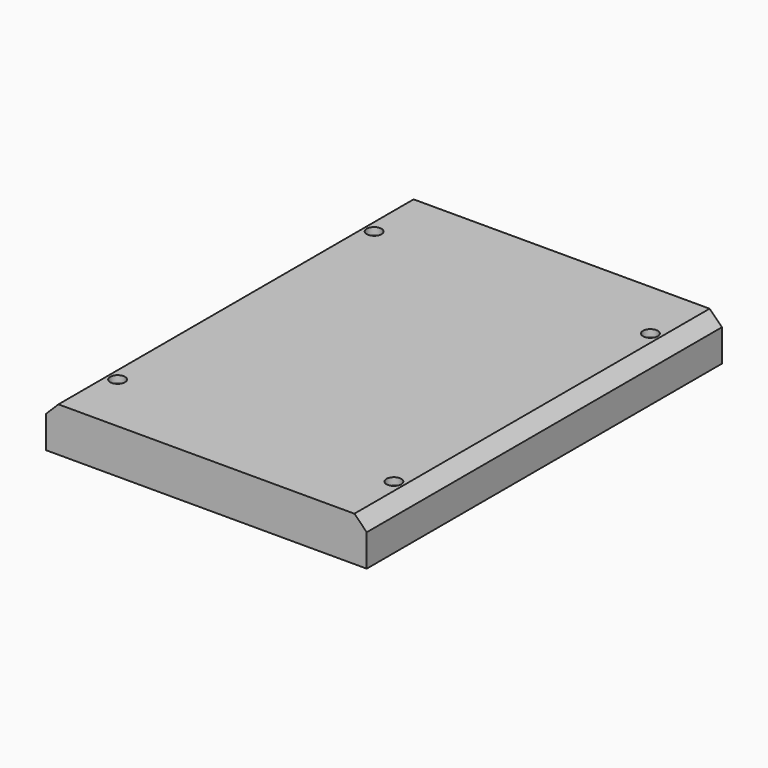
from build123d import *

# Parameters (mm, degrees)
F0_W           = 130
F0_H           = 180
F1_DEPTH       = 9
F3_D           = 5
F3_DEPTH       = 15
F3_CBORE_D     = 6
F3_CBORE_DEPTH = 3
F3_TIP         = 1.5021515476
F4_SIZE        = 5


with BuildPart() as f1:
    # F0 (on Top) → F1 (new body, symmetric)
    with BuildSketch(Plane.XY):
        Rectangle(F0_W, F0_H)
    extrude(amount=F1_DEPTH, both=True)

    # F3
    with Locations(Plane.XY.offset(9)):
        with Locations((-56, 65), (56, 65), (56, -65), (-56, -65)):
            CounterBoreHole(F3_D / 2, F3_CBORE_D / 2, F3_CBORE_DEPTH, depth=F3_DEPTH)
            with Locations((0, 0, -(F3_DEPTH + F3_TIP / 2))):  # 118° drill point
                Cone(0, F3_D / 2, F3_TIP, mode=Mode.SUBTRACT)

    # F4
    f4_edges = [f1.edges().sort_by_distance(p)[0] for p in [
        (-65, 0, 9),
        (65, 0, 9),
    ]]
    chamfer(f4_edges, length=F4_SIZE)


solid = f1.part
